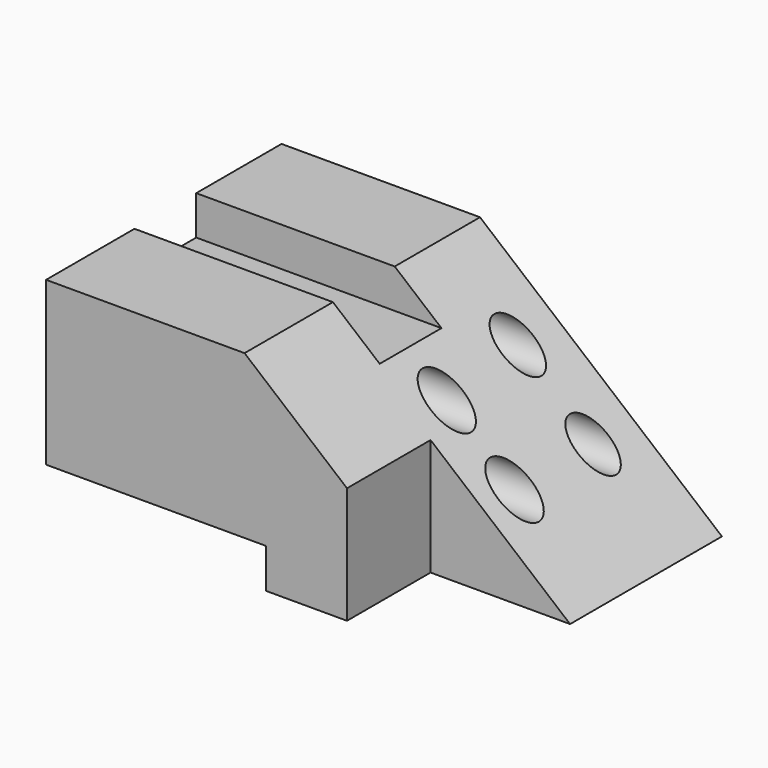
from build123d import *

# Parameters (mm, degrees)
F1_DEPTH = 101.6
F2_W     = 62.831107527
F2_H     = 56.3771557063
F3_DEPTH = 36.068
F4_W     = 26.6572609544
F4_H     = 13.4982671589
F4_H_2   = 14.6736167371
F5_DEPTH = 108.712
F6_R     = 7.0273260197
F6_R_2   = 6.9955111579
F6_R_3   = 6.6555032816
F6_R_4   = 6.7798018692
F7_DEPTH = 174.752


with BuildPart() as f1:
    # F0 (on Front) → F1 (new body)
    with BuildSketch(Plane.XZ):
        Polygon((-7.4572972953, 38.0593240261), (-75.9830623865, 38.0593240261), (-75.9830623865, -18.1280076504), (0, -18.1280076504), (0, -31.7951962352), (76.0644078255, -31.7951962352), align=None)
    extrude(amount=F1_DEPTH)

    # F2 (on face) → F3 (cut)
    with BuildSketch(Plane.XZ.offset(101.6)):
        with Locations((59.3193974346, -3.606618382)):
            Rectangle(F2_W, F2_H)
    extrude(amount=-F3_DEPTH, mode=Mode.SUBTRACT)

    # F4 (on face) → F5 (cut)
    with BuildSketch(Plane(origin=(-75.9830623865, 0, 0), x_dir=(0, -1, 0), z_dir=(-1, 0, 0))):
        with Locations((50.1333586872, 31.3101904467)):
            Rectangle(F4_W, F4_H)
        with Locations((50.1333586872, 45.3961323947)):
            Rectangle(F4_W, F4_H_2)
    extrude(amount=-F5_DEPTH, mode=Mode.SUBTRACT)

    # F6 (on face) → F7 (cut)
    with BuildSketch(Plane(origin=(-75.9830623865, 0, 0), x_dir=(0, -1, 0), z_dir=(-1, 0, 0))):
        with Locations((51.6176335514, -6.4415424131)):
            Circle(F6_R)
        with Locations((51.6176335514, 13.1108649075)):
            Circle(F6_R_2)
        with Locations((17.7108142525, -6.4415424131)):
            Circle(F6_R_3)
        with Locations((17.7108142525, 15.2898039669)):
            Circle(F6_R_4)
    extrude(amount=-F7_DEPTH, mode=Mode.SUBTRACT)


solid = f1.part
